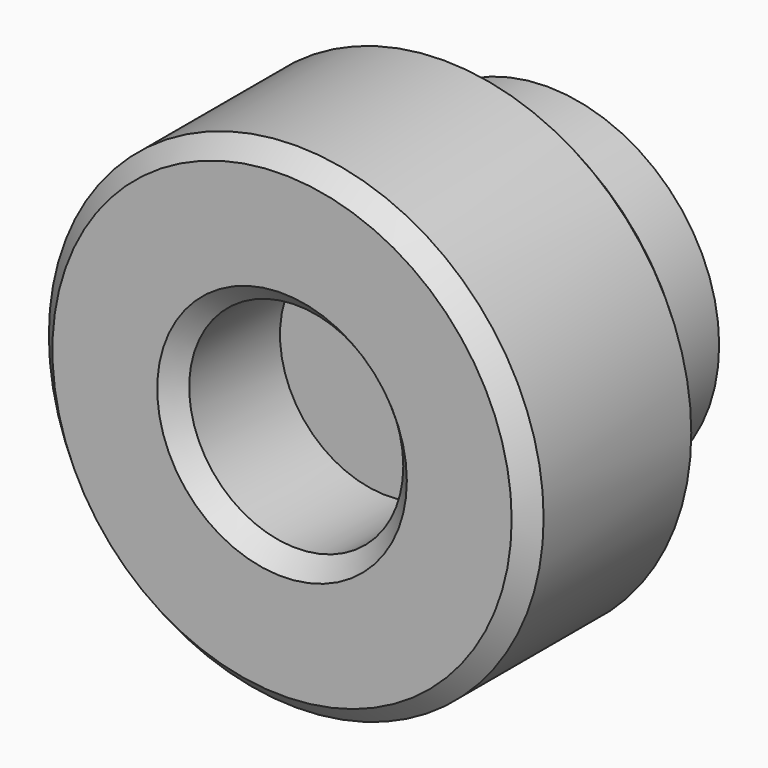
from build123d import *

# Parameters (mm, degrees)
F0_R     = 70.754206
F0_R_2   = 30.61563
F1_DEPTH = 62.94323
F2_SIZE  = 5.08
F3_R     = 49.110823
F4_DEPTH = 31.93714
F5_R     = 30.807574
F6_DEPTH = 25.4


with BuildPart() as f1:
    # F0 (on Front) → F1 (new body)
    with BuildSketch(Plane.XZ):
        Circle(F0_R)
        Circle(F0_R_2, mode=Mode.SUBTRACT)
    extrude(amount=F1_DEPTH)

    # F2
    f2_edges = [f1.edges().sort_by_distance(p)[0] for p in [
        (-70.754206, -62.94323, 0),
        (-30.61563, -62.94323, 0),
        (-70.754206, 0, 0),
        (-30.61563, 0, 0),
    ]]
    chamfer(f2_edges, length=F2_SIZE)

    # F3 (on face) → F4 (join)
    with BuildSketch(Plane(origin=(0, 0, 0), x_dir=(-1, 0, 0), z_dir=(0, 1, 0))):
        Circle(F3_R)
    extrude(amount=F4_DEPTH)

    # F5 (on Front) → F6 (join)
    with BuildSketch(Plane.XZ):
        Circle(F5_R)
    extrude(amount=F6_DEPTH)


solid = f1.part
